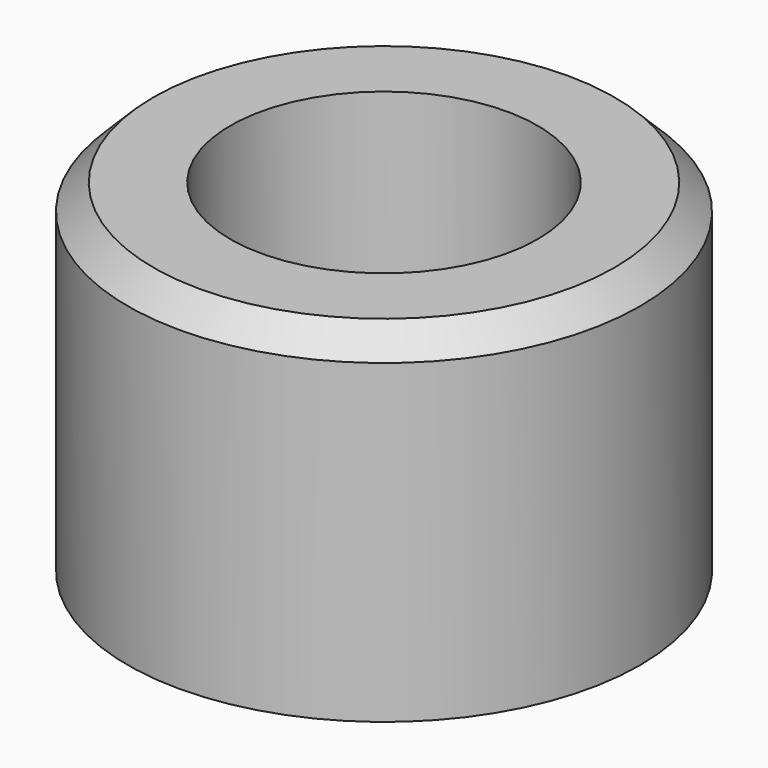
from build123d import *

# Parameters (mm, degrees)
SKETCH016_R     = 3
PAD007_DEPTH    = 4
SKETCH023_R     = 1.8
POCKET007_DEPTH = 6
CHAMFER001_SIZE = 0.3


with BuildPart() as part:
    # Sketch016 → Pad007 (new body)
    with BuildSketch(Plane.XY.offset(11)):
        Circle(SKETCH016_R)
    extrude(amount=PAD007_DEPTH)

    # Sketch023 (on Face3 of Pad007) → Pocket007 (cut)
    with BuildSketch(Plane.XY.offset(15)):
        Circle(SKETCH023_R)
    extrude(amount=-POCKET007_DEPTH, mode=Mode.SUBTRACT)

    # Chamfer001
    chamfer001_edges = [part.edges().sort_by_distance(p)[0] for p in [
        (-3, 0, 15),
    ]]
    chamfer(chamfer001_edges, length=CHAMFER001_SIZE)


with BuildPart() as part_1:
    # Body002 placement: moved
    add(part.part.moved(Location((0, 0, -1))))


solid = part_1.part
